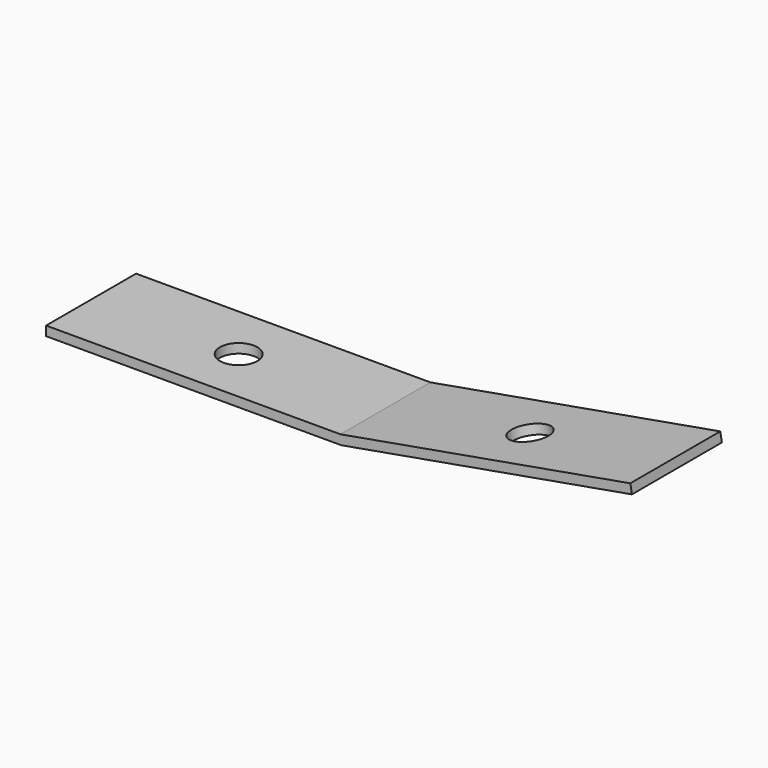
from build123d import *

# Parameters (mm, degrees)
F1_DEPTH = 19.05
F2_R     = 3.175
F3_DEPTH = 25
F4_R     = 3.175
F5_DEPTH = 25


with BuildPart() as f1:
    # F0 (on Front) → F1 (new body)
    with BuildSketch(Plane.XZ):
        Polygon((0, 1.5875), (0, 0), (50, 0), (99.2403876506, 8.6824088833), (98.9647211686, 10.2457911913), (49.8611117467, 1.5875), align=None)
    extrude(amount=F1_DEPTH)

    # F2 (on face) → F3 (cut)
    with BuildSketch(Plane(origin=(0, 0, 0), x_dir=(1, 0, 0), z_dir=(0, 0, -1))):
        with Locations((25, 9.525)):
            Circle(F2_R)
    extrude(amount=-F3_DEPTH, mode=Mode.SUBTRACT)

    # F4 (on face) → F5 (cut)
    with BuildSketch(Plane(origin=(1.5076844804, 0, -8.5505035831), x_dir=(0.984807753, 0, 0.1736481777), z_dir=(0.1736481777, 0, -0.984807753))):
        with Locations((74.2403876506, 9.525)):
            Circle(F4_R)
    extrude(amount=-F5_DEPTH, mode=Mode.SUBTRACT)


solid = f1.part
